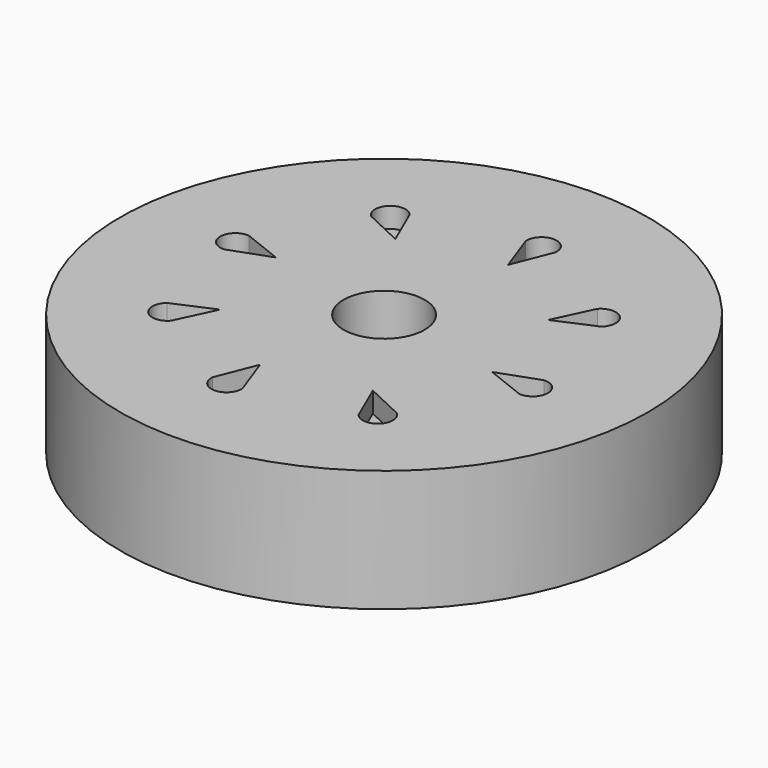
from build123d import *

# Parameters (mm, degrees)
F0_R     = 20.6375
F1_DEPTH = 4.7625
F2_R     = 3.175
F4_DEPTH = 12.7
F5_DEPTH = 1.5875
F7_DEPTH = 1.5875


with BuildPart() as f1:
    # F0 (on Top) → F1 (new body, symmetric)
    with BuildSketch(Plane.XY):
        Circle(F0_R)
    extrude(amount=F1_DEPTH, both=True)

    # F2 (on Top) → F4 (cut, symmetric)
    with BuildSketch(Plane.XY):
        Circle(F2_R)
    extrude(amount=F4_DEPTH, both=True, mode=Mode.SUBTRACT)

    # F3 (on face) → F5 (cut)
    with BuildSketch(Plane.XY.offset(4.7625)):
        with BuildLine():
            Line((-5.724748, 8.25276), (-7.050308, 11.314797))
            ThreePointArc((-7.050308, 11.314797), (-8.78422, 11.409519), (-8.743804, 9.673492))
            Line((-8.743804, 9.673492), (-5.724748, 8.25276))
        make_face()
        with BuildLine():
            Line((-9.883591, 1.787574), (-12.98609, 3.015449))
            ThreePointArc((-12.98609, 3.015449), (-14.27913, 1.856367), (-13.022995, 0.657388))
            Line((-13.022995, 0.657388), (-9.883591, 1.787574))
        make_face()
        with BuildLine():
            Line((-8.25276, -5.724748), (-11.314797, -7.050308))
            ThreePointArc((-11.314797, -7.050308), (-11.409519, -8.78422), (-9.673492, -8.743804))
            Line((-9.673492, -8.743804), (-8.25276, -5.724748))
        make_face()
        with BuildLine():
            Line((-1.787574, -9.883591), (-3.015449, -12.98609))
            ThreePointArc((-3.015449, -12.98609), (-1.856367, -14.27913), (-0.657388, -13.022995))
            Line((-0.657388, -13.022995), (-1.787574, -9.883591))
        make_face()
        with BuildLine():
            Line((5.724748, -8.25276), (7.050308, -11.314797))
            ThreePointArc((7.050308, -11.314797), (8.78422, -11.409519), (8.743804, -9.673492))
            Line((8.743804, -9.673492), (5.724748, -8.25276))
        make_face()
        with BuildLine():
            Line((9.883591, -1.787574), (12.98609, -3.015449))
            ThreePointArc((12.98609, -3.015449), (14.27913, -1.856367), (13.022995, -0.657388))
            Line((13.022995, -0.657388), (9.883591, -1.787574))
        make_face()
        with BuildLine():
            Line((8.25276, 5.724748), (11.314797, 7.050308))
            ThreePointArc((11.314797, 7.050308), (11.409519, 8.78422), (9.673492, 8.743804))
            Line((9.673492, 8.743804), (8.25276, 5.724748))
        make_face()
        with BuildLine():
            Line((1.787574, 9.883591), (3.015449, 12.98609))
            ThreePointArc((3.015449, 12.98609), (1.856367, 14.27913), (0.657388, 13.022995))
            Line((0.657388, 13.022995), (1.787574, 9.883591))
        make_face()
    extrude(amount=-F5_DEPTH, mode=Mode.SUBTRACT)

    # F6 (on face) → F7 (cut)
    with BuildSketch(Plane(origin=(0, 0, -4.7625), x_dir=(1, 0, 0), z_dir=(0, 0, -1))):
        with BuildLine():
            Line((-6.830625, 8.059029), (-8.156184, 11.121066))
            ThreePointArc((-8.156184, 11.121066), (-9.890096, 11.215789), (-9.849681, 9.479761))
            Line((-9.849681, 9.479761), (-6.830625, 8.059029))
        make_face()
        with BuildLine():
            Line((-10.528575, 0.868613), (-13.631074, 2.096489))
            ThreePointArc((-13.631074, 2.096489), (-14.924114, 0.937406), (-13.66798, -0.261572))
            Line((-13.66798, -0.261572), (-10.528575, 0.868613))
        make_face()
        with BuildLine():
            Line((-8.059029, -6.830625), (-11.121066, -8.156184))
            ThreePointArc((-11.121066, -8.156184), (-11.215789, -9.890096), (-9.479761, -9.849681))
            Line((-9.479761, -9.849681), (-8.059029, -6.830625))
        make_face()
        with BuildLine():
            Line((-0.868613, -10.528575), (-2.096489, -13.631074))
            ThreePointArc((-2.096489, -13.631074), (-0.937406, -14.924114), (0.261572, -13.66798))
            Line((0.261572, -13.66798), (-0.868613, -10.528575))
        make_face()
        with BuildLine():
            Line((6.830625, -8.059029), (8.156184, -11.121066))
            ThreePointArc((8.156184, -11.121066), (9.890096, -11.215789), (9.849681, -9.479761))
            Line((9.849681, -9.479761), (6.830625, -8.059029))
        make_face()
        with BuildLine():
            Line((10.528575, -0.868613), (13.631074, -2.096489))
            ThreePointArc((13.631074, -2.096489), (14.924114, -0.937406), (13.66798, 0.261572))
            Line((13.66798, 0.261572), (10.528575, -0.868613))
        make_face()
        with BuildLine():
            Line((8.059029, 6.830625), (11.121066, 8.156184))
            ThreePointArc((11.121066, 8.156184), (11.215789, 9.890096), (9.479761, 9.849681))
            Line((9.479761, 9.849681), (8.059029, 6.830625))
        make_face()
        with BuildLine():
            Line((0.868613, 10.528575), (2.096489, 13.631074))
            ThreePointArc((2.096489, 13.631074), (0.937406, 14.924114), (-0.261572, 13.66798))
            Line((-0.261572, 13.66798), (0.868613, 10.528575))
        make_face()
    extrude(amount=-F7_DEPTH, mode=Mode.SUBTRACT)


solid = f1.part
